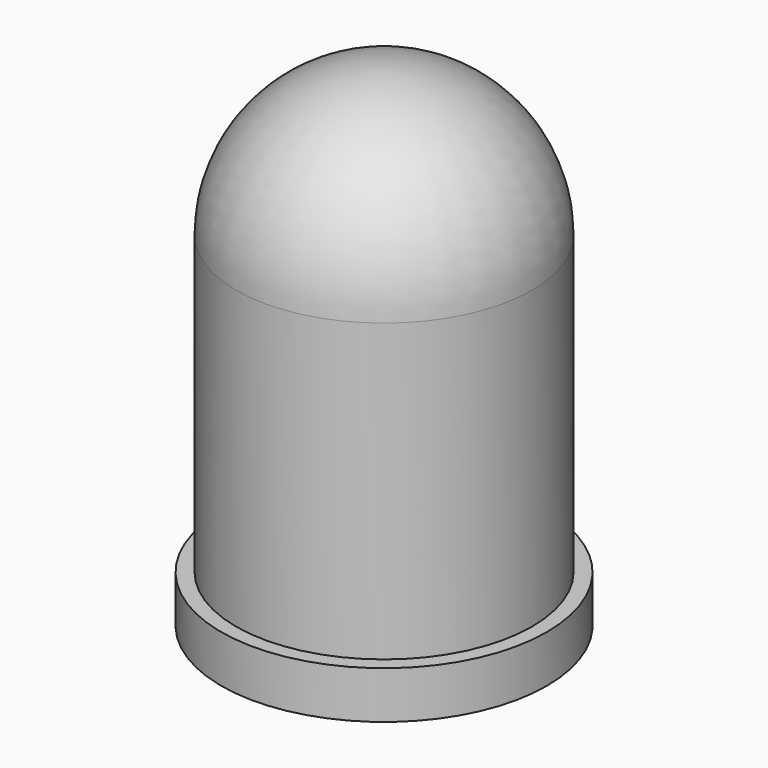
from build123d import *

# Parameters (mm, degrees)
F0_R     = 2.75
F1_DEPTH = 0.8


with BuildPart() as f1:
    # F0 (on Top) → F1 (new body)
    with BuildSketch(Plane.XY):
        Circle(F0_R)
    extrude(amount=F1_DEPTH)

    # F2 (on Right) → F3 (revolve)
    with BuildSketch(Plane.YZ):
        with BuildLine():
            Line((-2.5, 0), (0, 0))
            Line((0, 0), (0, 8.3))
            ThreePointArc((0, 8.3), (-1.767767, 7.567767), (-2.5, 5.8))
            Line((-2.5, 5.8), (-2.5, 0))
        make_face()
    revolve(axis=Axis((0, 0, 4.15), (0, 0, 1)))


solid = f1.part
